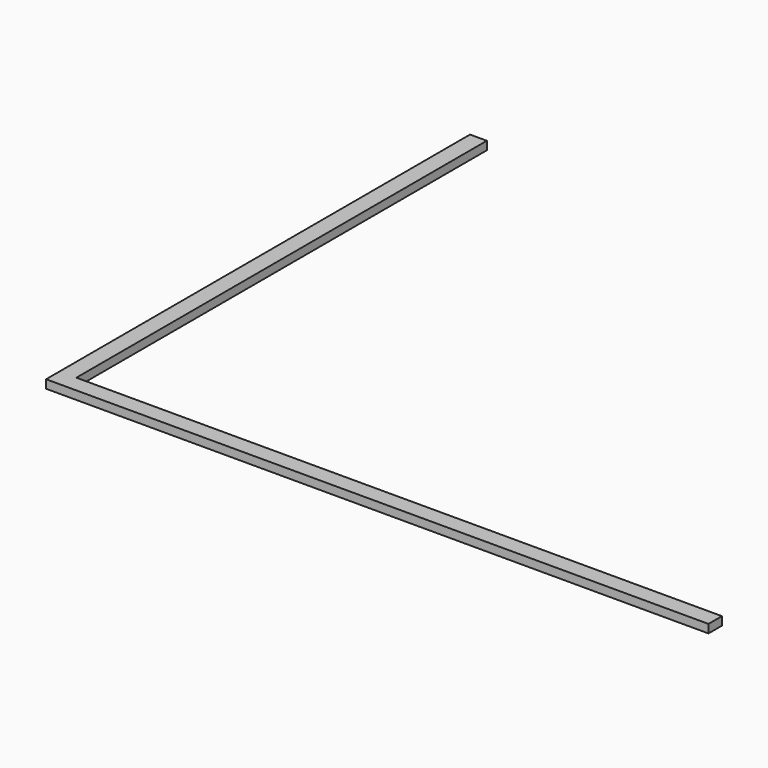
from build123d import *

# Parameters (mm, degrees)
F0_W     = 6.35
F0_H     = 6.35
F0_H_2   = 193.65
F0_W_2   = 243.65
F1_DEPTH = 3.175


with BuildPart() as f1:
    # F0 (on Top) → F1 (new body)
    with BuildSketch(Plane.XY):
        with Locations((3.175, 3.175)):
            Rectangle(F0_W, F0_H)
        with Locations((3.175, 103.175)):
            Rectangle(F0_W, F0_H_2)
        with Locations((128.175, 3.175)):
            Rectangle(F0_W_2, F0_H)
    extrude(amount=F1_DEPTH)


solid = f1.part
